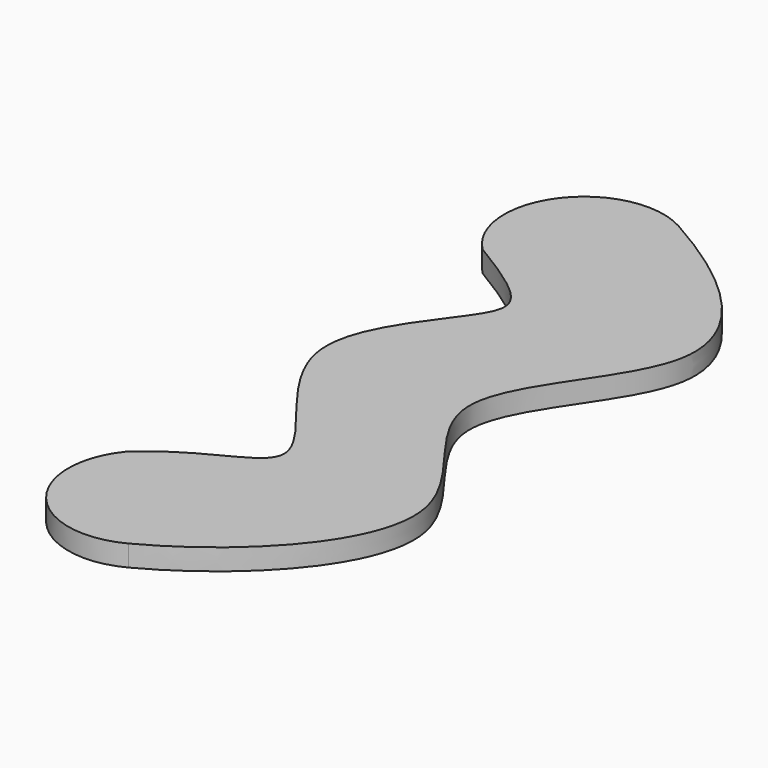
from build123d import *

# Parameters (mm, degrees)
F1_DEPTH = 19.05


with BuildPart() as f1:
    # F0 (on Top) → F1 (new body)
    with BuildSketch(Plane.XY):
        with BuildLine():
            add(Edge.make_bspline(
                [(0, 306.392671655), (80.1936934283, 261.3816472627), (188.7551300828, 158.337739434), (-8.2162592568, -2.9250744168), (195.2994136735, -140.670642895), (73.1433664508, -273.0992242473), (0, -311.7581359321)],
                knots=[0, 0, 0, 0, 0.2602710705, 0.4986102487, 0.7314908466, 1, 1, 1, 1], degree=3))
            ThreePointArc((0, 306.392671655), (-92.3620244961, 286.9596086416), (-85.3599553773, 192.8354431199))
            add(Edge.make_bspline(
                [(-85.3599553773, 192.8354431199), (-18.0750204003, 152.2837344194), (-1.8865443005, 127.3654270686), (-134.5456230955, -0.7910594612), (57.7338491133, -155.268378743), (-46.7326106271, -164.0067000801), (-88.9570514251, -204.1691291057)],
                knots=[0, 0, 0, 0, 0.2223007207, 0.4784908229, 0.7612928958, 1, 1, 1, 1], degree=3))
            ThreePointArc((-88.9570514251, -204.1691291057), (-88.2533371676, -294.1576477682), (0, -311.7581359321))
        make_face()
    extrude(amount=F1_DEPTH)


solid = f1.part
